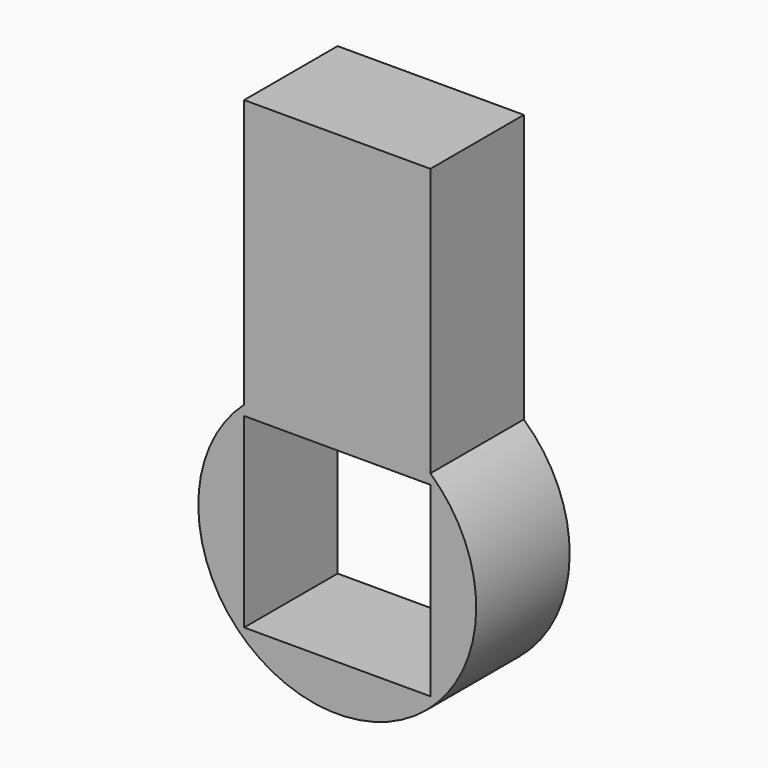
from build123d import *

# Parameters (mm, degrees)
F0_R      = 9.55
F0_W      = 12.8
F0_H      = 12.8
F1_DEPTH  = 8.03
F1_FACE_W = 12.8
F1_FACE_H = 8.03
F2_DEPTH  = 19.115919


with BuildPart() as f1:
    # F0 (on Front) → F1 (new body)
    with BuildSketch(Plane.XZ):
        Circle(F0_R)
        Rectangle(F0_W, F0_H, mode=Mode.SUBTRACT)
    extrude(amount=F1_DEPTH)

    # F1_face (on face) → F2 (join)
    with BuildSketch(Plane(origin=(0, -4.015, 6.4), x_dir=(1, 0, 0), z_dir=(0, 0, -1))):
        Rectangle(F1_FACE_W, F1_FACE_H)
    extrude(amount=-F2_DEPTH)


solid = f1.part
